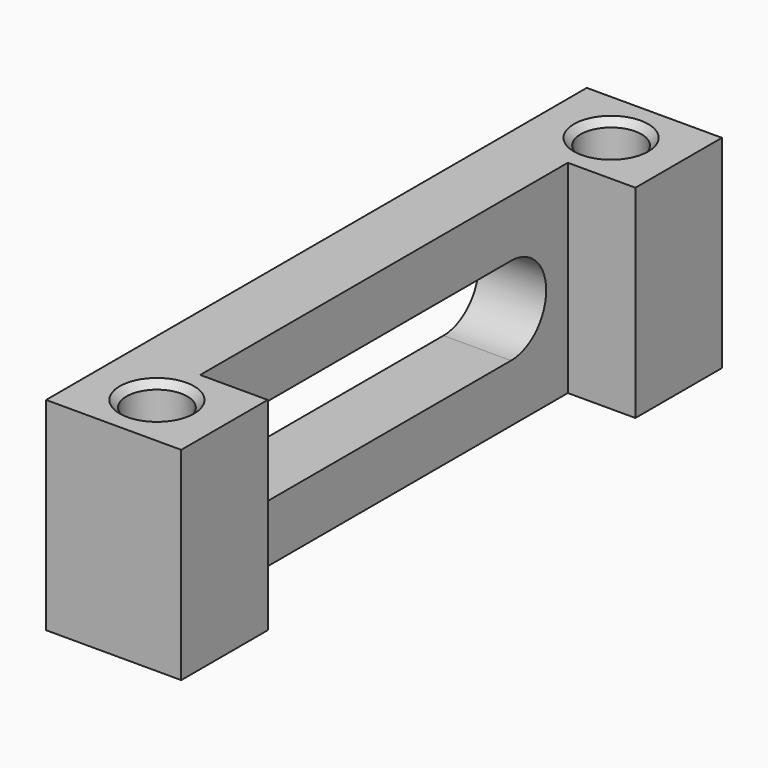
from build123d import *

# Parameters (mm, degrees)
F1_DEPTH = 10
F2_W     = 34
F2_H     = 15
F3_DEPTH = 5
F4_R     = 2.25
F5_DEPTH = 25
F6_SIZE  = 0.5


with BuildPart() as f1:
    # F0 (on Right) → F1 (new body)
    with BuildSketch(Plane.YZ):
        Polygon((0, 7.5), (-50, 7.5), (-50, 3.25), (-50, 0), (-50, -3.25), (-50, -7.5), (0, -7.5), (0, 0), align=None)
        with BuildLine():
            ThreePointArc((-36.75, -3.25), (-40, 0), (-36.75, 3.25))
            Line((-36.75, 3.25), (-13.25, 3.25))
            ThreePointArc((-13.25, 3.25), (-10, 0), (-13.25, -3.25))
            Line((-13.25, -3.25), (-36.75, -3.25))
        make_face(mode=Mode.SUBTRACT)
    extrude(amount=F1_DEPTH)

    # F2 (on face) → F3 (cut)
    with BuildSketch(Plane.YZ.offset(10)):
        with Locations((-25, 0)):
            Rectangle(F2_W, F2_H)
    extrude(amount=-F3_DEPTH, mode=Mode.SUBTRACT)

    # F4 (on face) → F5 (cut)
    with BuildSketch(Plane.XY.offset(7.5)):
        with Locations((5, -46)):
            Circle(F4_R)
        with Locations((5, -4)):
            Circle(F4_R)
    extrude(amount=-F5_DEPTH, mode=Mode.SUBTRACT)

    # F6
    f6_edges = [f1.edges().sort_by_distance(p)[0] for p in [
        (2.75, -46, 7.5),
        (7.25, -46, 0),
        (2.75, -46, -7.5),
        (2.75, -4, 7.5),
        (7.25, -4, 0),
        (2.75, -4, -7.5),
    ]]
    chamfer(f6_edges, length=F6_SIZE)


solid = f1.part
